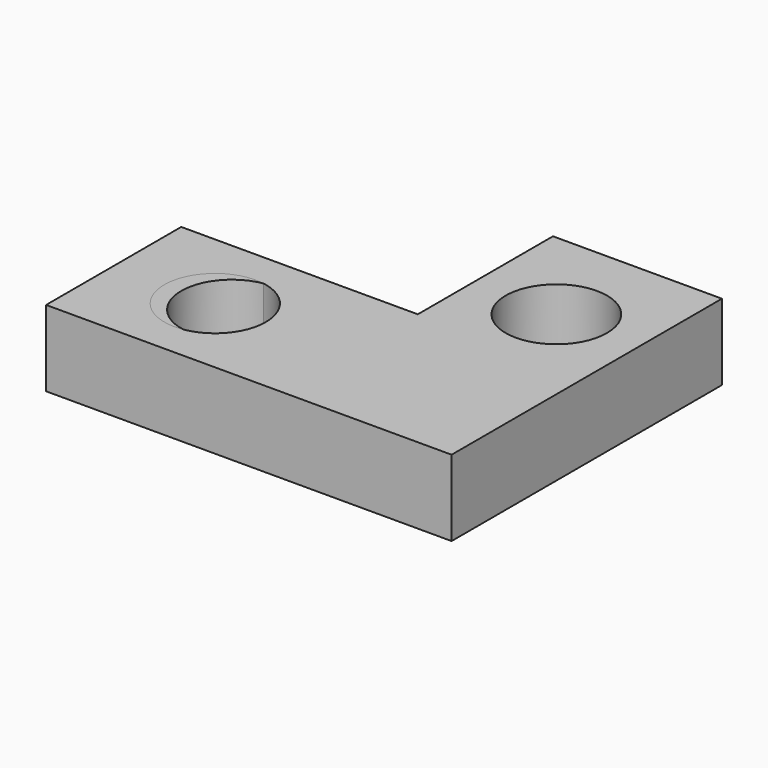
from build123d import *

# Parameters (mm, degrees)
CYLINDER_R        = 3
CYLINDER_DEPTH    = 10
BOX001_W          = 14
BOX001_H          = 9
BOX001_DEPTH      = 4.5
BOX_W             = 14
BOX_H             = 12
BOX_DEPTH         = 2
CYLINDER002_R     = 3
CYLINDER002_DEPTH = 10
CYLINDER001_R     = 3
CYLINDER001_DEPTH = 10
BOX002_W          = 14
BOX002_H          = 10
BOX002_DEPTH      = 4.5
BOX004_W          = 13
BOX004_H          = 20
BOX004_DEPTH      = 2
BOX005_W          = 10
BOX005_H          = 20
BOX005_DEPTH      = 4.5
BOX003_W          = 14
BOX003_H          = 13
BOX003_DEPTH      = 2


with BuildPart() as cylinder:
    # Cylinder → Cylinder (new body)
    with BuildSketch(Plane(origin=(7, 5, -1), x_dir=(1, 0, 0), z_dir=(0, 0, 1))):
        Circle(CYLINDER_R)
    extrude(amount=CYLINDER_DEPTH)


with BuildPart() as cube001:
    # Box001 → Box001 (new body)
    with BuildSketch(Plane.XY):
        with Locations((7, 4.5)):
            Rectangle(BOX001_W, BOX001_H)
    extrude(amount=BOX001_DEPTH)


with BuildPart() as linear:
    # Box → Box (new body)
    with BuildSketch(Plane.XY):
        with Locations((7, 6)):
            Rectangle(BOX_W, BOX_H)
    extrude(amount=BOX_DEPTH)

    # Fusion: union Cube001
    add(cube001.part)

    # Cut: cut Cylinder
    add(cylinder.part, mode=Mode.SUBTRACT)


with BuildPart() as cylinder002:
    # Cylinder002 → Cylinder002 (new body)
    with BuildSketch(Plane(origin=(19, 14, -1), x_dir=(1, 0, 0), z_dir=(0, 0, 1))):
        Circle(CYLINDER002_R)
    extrude(amount=CYLINDER002_DEPTH)


with BuildPart() as fusion001:
    # Cylinder001 → Cylinder001 (new body)
    with BuildSketch(Plane(origin=(6, 5, -1), x_dir=(1, 0, 0), z_dir=(0, 0, 1))):
        Circle(CYLINDER001_R)
    extrude(amount=CYLINDER001_DEPTH)

    # Fusion001: union Cylinder002
    add(cylinder002.part)


with BuildPart() as cube002:
    # Box002 → Box002 (new body)
    with BuildSketch(Plane.XY):
        with Locations((7, 5)):
            Rectangle(BOX002_W, BOX002_H)
    extrude(amount=BOX002_DEPTH)


with BuildPart() as cube004:
    # Box004 → Box004 (new body)
    with BuildSketch(Plane(origin=(11, 0, 0), x_dir=(1, 0, 0), z_dir=(0, 0, 1))):
        with Locations((6.5, 10)):
            Rectangle(BOX004_W, BOX004_H)
    extrude(amount=BOX004_DEPTH)


with BuildPart() as cube005:
    # Box005 → Box005 (new body)
    with BuildSketch(Plane(origin=(14, 0, 0), x_dir=(1, 0, 0), z_dir=(0, 0, 1))):
        with Locations((5, 10)):
            Rectangle(BOX005_W, BOX005_H)
    extrude(amount=BOX005_DEPTH)


with BuildPart() as angular:
    # Box003 → Box003 (new body)
    with BuildSketch(Plane.XY):
        with Locations((7, 6.5)):
            Rectangle(BOX003_W, BOX003_H)
    extrude(amount=BOX003_DEPTH)

    # Fusion002: union Cube002, Cube004, Cube005
    add(cube002.part)
    add(cube004.part)
    add(cube005.part)

    # Cut001: cut Fusion001
    add(fusion001.part, mode=Mode.SUBTRACT)


solid = Compound([linear.part, angular.part])
